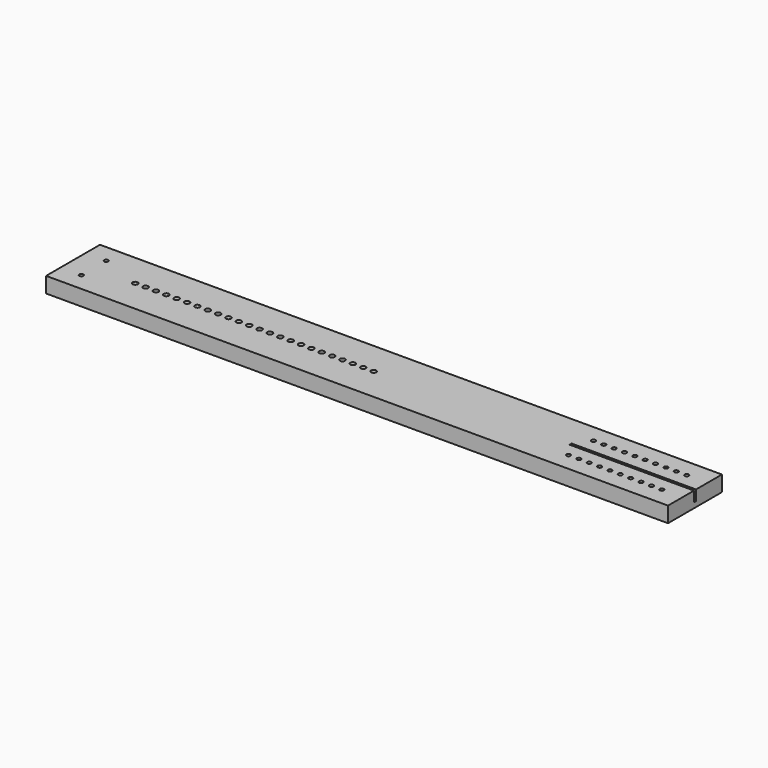
from build123d import *

# Parameters (mm, degrees)
F0_W     = 762
F0_H     = 82.55
F1_DEPTH = 19.05
F2_R     = 2.5
F2_R_2   = 3.175
F2_W     = 152.4
F2_H     = 3.175
F3_DEPTH = 12.7


with BuildPart() as f1:
    # F0 (on Top) → F1 (new body)
    with BuildSketch(Plane.XY):
        with Locations((381, -41.275)):
            Rectangle(F0_W, F0_H)
    extrude(amount=F1_DEPTH)

    # F2 (on face) → F3 (cut)
    with BuildSketch(Plane.XY.offset(19.05)):
        with Locations((25.4, -22.225)):
            Circle(F2_R)
        with Locations((25.4, -60.325)):
            Circle(F2_R)
        with Locations((76.2, -41.275)):
            Circle(F2_R_2)
        with Locations((736.6, -22.225)):
            Circle(F2_R)
        with Locations((736.6, -60.325)):
            Circle(F2_R)
        with Locations((88.9, -41.275)):
            Circle(F2_R_2)
        with Locations((101.6, -41.275)):
            Circle(F2_R_2)
        with Locations((114.3, -41.275)):
            Circle(F2_R_2)
        with Locations((127, -41.275)):
            Circle(F2_R_2)
        with Locations((139.7, -41.275)):
            Circle(F2_R_2)
        with Locations((152.4, -41.275)):
            Circle(F2_R_2)
        with Locations((165.1, -41.275)):
            Circle(F2_R_2)
        with Locations((177.8, -41.275)):
            Circle(F2_R_2)
        with Locations((190.5, -41.275)):
            Circle(F2_R_2)
        with Locations((203.2, -41.275)):
            Circle(F2_R_2)
        with Locations((215.9, -41.275)):
            Circle(F2_R_2)
        with Locations((723.9, -22.225)):
            Circle(F2_R)
        with Locations((723.9, -60.325)):
            Circle(F2_R)
        with Locations((711.2, -22.225)):
            Circle(F2_R)
        with Locations((711.2, -60.325)):
            Circle(F2_R)
        with Locations((698.5, -22.225)):
            Circle(F2_R)
        with Locations((698.5, -60.325)):
            Circle(F2_R)
        with Locations((685.8, -22.225)):
            Circle(F2_R)
        with Locations((685.8, -60.325)):
            Circle(F2_R)
        with Locations((673.1, -22.225)):
            Circle(F2_R)
        with Locations((673.1, -60.325)):
            Circle(F2_R)
        with Locations((660.4, -22.225)):
            Circle(F2_R)
        with Locations((660.4, -60.325)):
            Circle(F2_R)
        with Locations((647.7, -22.225)):
            Circle(F2_R)
        with Locations((647.7, -60.325)):
            Circle(F2_R)
        with Locations((635, -22.225)):
            Circle(F2_R)
        with Locations((635, -60.325)):
            Circle(F2_R)
        with Locations((685.8, -41.275)):
            Rectangle(F2_W, F2_H)
        with Locations((622.3, -22.225)):
            Circle(F2_R)
        with Locations((622.3, -60.325)):
            Circle(F2_R)
        with Locations((228.6, -41.275)):
            Circle(F2_R_2)
        with Locations((241.3, -41.275)):
            Circle(F2_R_2)
        with Locations((254, -41.275)):
            Circle(F2_R_2)
        with Locations((266.7, -41.275)):
            Circle(F2_R_2)
        with Locations((279.4, -41.275)):
            Circle(F2_R_2)
        with Locations((292.1, -41.275)):
            Circle(F2_R_2)
        with Locations((304.8, -41.275)):
            Circle(F2_R_2)
        with Locations((317.5, -41.275)):
            Circle(F2_R_2)
        with Locations((330.2, -41.275)):
            Circle(F2_R_2)
        with Locations((342.9, -41.275)):
            Circle(F2_R_2)
        with Locations((355.6, -41.275)):
            Circle(F2_R_2)
        with Locations((368.3, -41.275)):
            Circle(F2_R_2)
    extrude(amount=-F3_DEPTH, mode=Mode.SUBTRACT)


solid = f1.part
